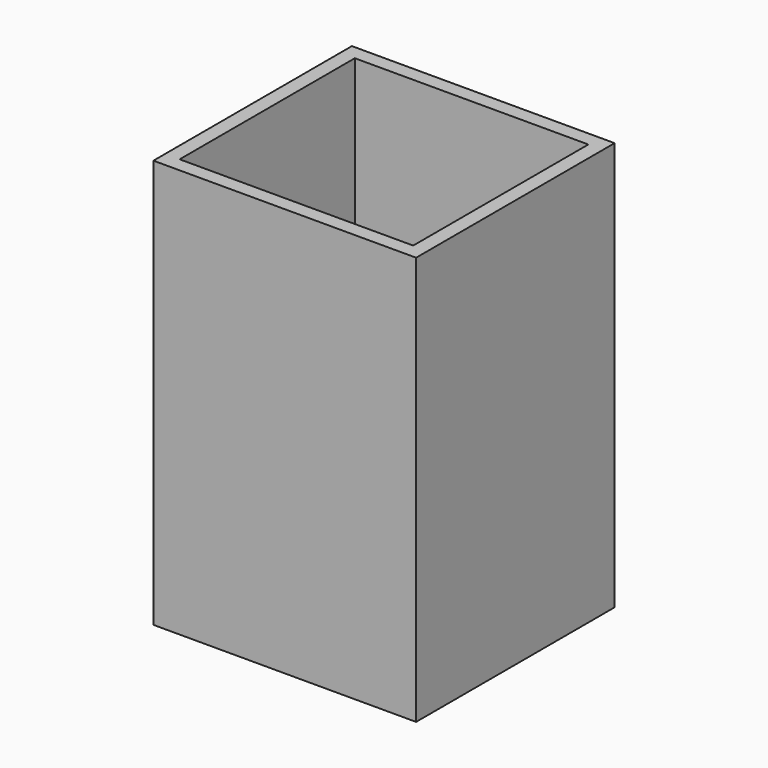
from build123d import *

# Parameters (mm, degrees)
F0_W     = 57.15
F0_H     = 88.9
F1_DEPTH = 3.175
F2_W     = 3.175
F2_H     = 88.9
F3_DEPTH = 50.8
F4_W     = 3.175
F4_H     = 88.9
F5_DEPTH = 50.8
F6_W     = 3.175
F6_H     = 88.9
F7_DEPTH = 50.8


with BuildPart() as f1:
    # F0 (on Front) → F1 (new body)
    with BuildSketch(Plane.XZ):
        with Locations((-4.401278, 4.662237)):
            Rectangle(F0_W, F0_H)
    extrude(amount=F1_DEPTH)

    # F2 (on face) → F3 (join)
    with BuildSketch(Plane.XZ.offset(3.175)):
        with Locations((22.586222, 4.662237)):
            Rectangle(F2_W, F2_H)
    extrude(amount=F3_DEPTH)

    # F4 (on face) → F5 (join)
    with BuildSketch(Plane.XZ.offset(3.175)):
        with Locations((-31.388778, 4.662237)):
            Rectangle(F4_W, F4_H)
    extrude(amount=F5_DEPTH)

    # F6 (on face) → F7 (join)
    with BuildSketch(Plane.YZ.offset(-29.801278)):
        with Locations((-52.3875, 4.662237)):
            Rectangle(F6_W, F6_H)
    extrude(amount=F7_DEPTH)


solid = f1.part
